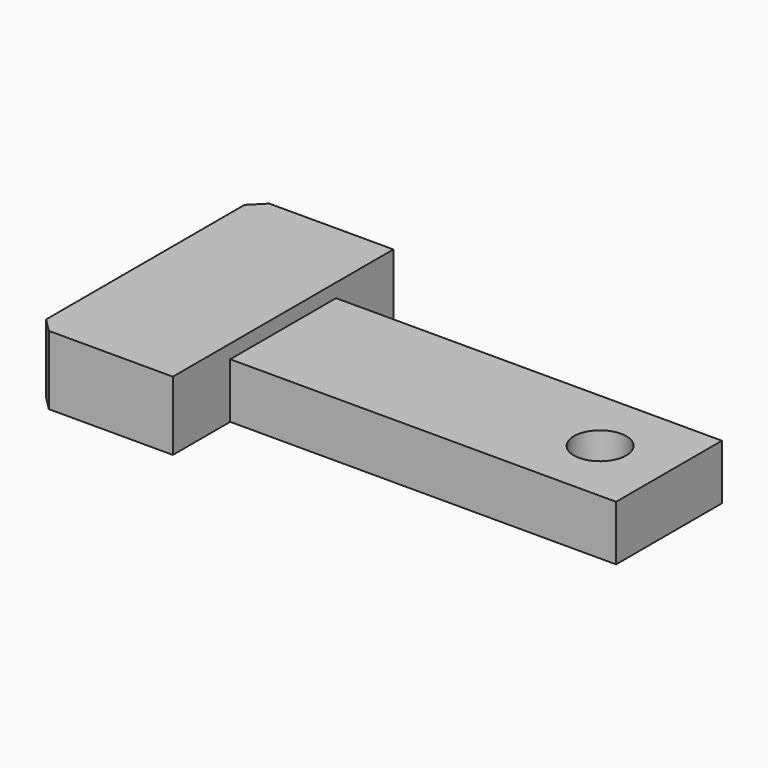
from build123d import *

# Parameters (mm, degrees)
CYLINDER025_R     = 1.9
CYLINDER025_DEPTH = 5
BOX018_W          = 30
BOX018_H          = 9.6
BOX018_DEPTH      = 4
BOX019_W          = 10
BOX019_H          = 20
BOX019_DEPTH      = 5
CHAMFER009_SIZE   = 1


with BuildPart() as cylinder025:
    # Cylinder025 → Cylinder025 (new body)
    with BuildSketch(Plane(origin=(25, 0, 0), x_dir=(1, 0, 0), z_dir=(0, 0, 1))):
        Circle(CYLINDER025_R)
    extrude(amount=CYLINDER025_DEPTH)


with BuildPart() as cut002008023012009006003002006_body:
    # Box018 → Box018 (new body)
    with BuildSketch(Plane(origin=(0, -4.8, 0), x_dir=(1, 0, 0), z_dir=(0, 0, 1))):
        with Locations((15, 4.8)):
            Rectangle(BOX018_W, BOX018_H)
    extrude(amount=BOX018_DEPTH)

    # Cut002008023012009006003002006002006002004004002: cut Cylinder025
    add(cylinder025.part, mode=Mode.SUBTRACT)


with BuildPart() as fusion001001001011002004:
    # Box019 → Box019 (new body)
    with BuildSketch(Plane(origin=(-8, -10, 0), x_dir=(1, 0, 0), z_dir=(0, 0, 1))):
        with Locations((5, 10)):
            Rectangle(BOX019_W, BOX019_H)
    extrude(amount=BOX019_DEPTH)

    # Chamfer009
    chamfer009_edges = [fusion001001001011002004.edges().sort_by_distance(p)[0] for p in [
        (-8, -10, 2.5),
        (-8, 10, 2.5),
    ]]
    chamfer(chamfer009_edges, length=CHAMFER009_SIZE)

    # Fusion001001001011002004: union Cut002008023012009006003002006 body
    add(cut002008023012009006003002006_body.part)


solid = fusion001001001011002004.part
